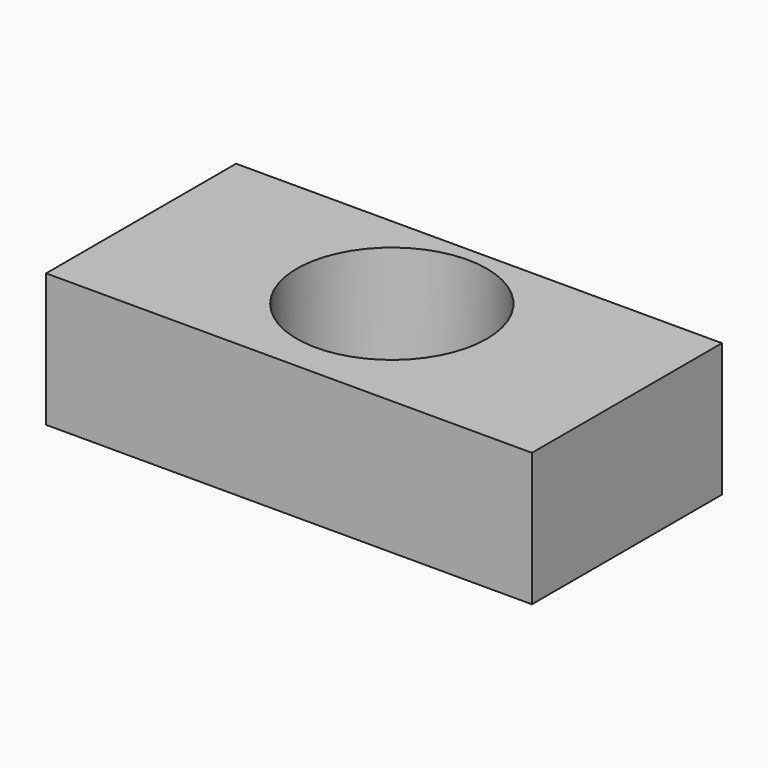
from build123d import *

# Parameters (mm, degrees)
F0_R     = 18.097592
F1_DEPTH = 25.4


with BuildPart() as f1:
    # F0 (on Top) → F1 (new body)
    with BuildSketch(Plane.XY):
        Polygon((-46.677887, 0), (0, 0), (45.848012, 0), (45.848012, 45.225665), (-46.677887, 45.225665), align=None)
        with Locations((-0.414938, 24.479955)):
            Circle(F0_R, mode=Mode.SUBTRACT)
    extrude(amount=F1_DEPTH)


solid = f1.part
